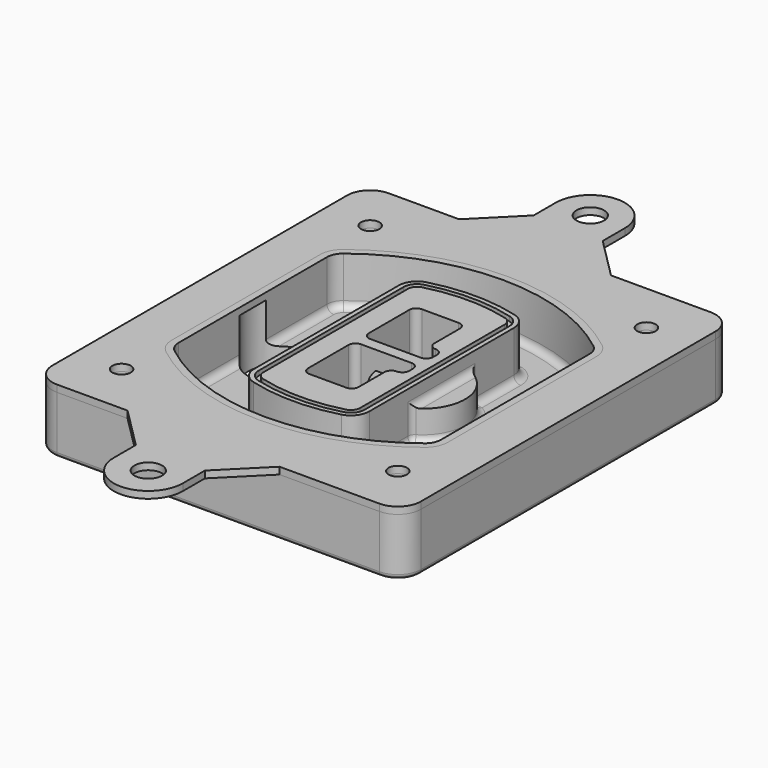
from build123d import *

# Parameters (mm, degrees)
F0_R      = 4
F1_DEPTH  = 25
F2_DEPTH  = 3
F3_DEPTH  = 18
F5_DEPTH  = 21
F6_DEPTH  = 2
F8_DEPTH  = 20
F9_DEPTH  = 16
F10_DEPTH = 25
F7_R      = 6
F7_R_2    = 4
F11_DEPTH = 6
F13_DEPTH = 9
F14_R     = 3
F15_R     = 2
F16_R     = 6
F16_R_2   = 4
F17_DEPTH = 3


with BuildPart() as f1:
    # F0 (on Top) → F1 (new body)
    with BuildSketch(Plane.XY):
        with BuildLine():
            ThreePointArc((-80, -80), (-77.0710678119, -87.0710678119), (-70, -90))
            Line((-70, -90), (70, -90))
            ThreePointArc((70, -90), (77.0710678119, -87.0710678119), (80, -80))
            Line((80, -80), (80, 80))
            ThreePointArc((80, 80), (77.0710678119, 87.0710678119), (70, 90))
            Line((70, 90), (-70, 90))
            ThreePointArc((-70, 90), (-77.0710678119, 87.0710678119), (-80, 80))
            Line((-80, 80), (-80, -80))
        make_face()
        with Locations((-60, -67.5)):
            Circle(F0_R, mode=Mode.SUBTRACT)
        with Locations((60, -67.5)):
            Circle(F0_R, mode=Mode.SUBTRACT)
        with Locations((-60, 67.5)):
            Circle(F0_R, mode=Mode.SUBTRACT)
        with BuildLine():
            ThreePointArc((-64, 40.2934422872), (-62.5820384798, 46.4328484224), (-58.6153846154, 51.3286200352))
            ThreePointArc((-58.6153846154, 51.3286200352), (0, 71.5), (58.6153846154, 51.3286200352))
            ThreePointArc((58.6153846154, 51.3286200352), (62.5820384798, 46.4328484224), (64, 40.2934422872))
            Line((64, 40.2934422872), (64, -40.2934422872))
            ThreePointArc((64, -40.2934422872), (62.5820384798, -46.4328484224), (58.6153846154, -51.3286200352))
            ThreePointArc((58.6153846154, -51.3286200352), (0, -71.5), (-58.6153846154, -51.3286200352))
            ThreePointArc((-58.6153846154, -51.3286200352), (-62.5820384798, -46.4328484224), (-64, -40.2934422872))
            Line((-64, -40.2934422872), (-64, 40.2934422872))
        make_face(mode=Mode.SUBTRACT)
        with Locations((60, 67.5)):
            Circle(F0_R, mode=Mode.SUBTRACT)
        with BuildLine():
            ThreePointArc((58.6153846154, 51.3286200352), (0, 71.5), (-58.6153846154, 51.3286200352))
            ThreePointArc((-58.6153846154, 51.3286200352), (-62.5820384798, 46.4328484224), (-64, 40.2934422872))
            Line((-64, 40.2934422872), (-64, -40.2934422872))
            ThreePointArc((-64, -40.2934422872), (-62.5820384798, -46.4328484224), (-58.6153846154, -51.3286200352))
            ThreePointArc((-58.6153846154, -51.3286200352), (0, -71.5), (58.6153846154, -51.3286200352))
            ThreePointArc((58.6153846154, -51.3286200352), (62.5820384798, -46.4328484224), (64, -40.2934422872))
            Line((64, -40.2934422872), (64, 40.2934422872))
            ThreePointArc((64, 40.2934422872), (62.5820384798, 46.4328484224), (58.6153846154, 51.3286200352))
        make_face()
        with BuildLine():
            Line((-60, -40.2934422872), (-60, 40.2934422872))
            ThreePointArc((-60, 40.2934422872), (-58.9871703427, 44.6787323838), (-56.1538461538, 48.1757121072))
            ThreePointArc((-56.1538461538, 48.1757121072), (0, 67.5), (56.1538461538, 48.1757121072))
            ThreePointArc((56.1538461538, 48.1757121072), (58.9871703427, 44.6787323838), (60, 40.2934422872))
            Line((60, 40.2934422872), (60, -40.2934422872))
            ThreePointArc((60, -40.2934422872), (58.9871703427, -44.6787323838), (56.1538461538, -48.1757121072))
            ThreePointArc((56.1538461538, -48.1757121072), (0, -67.5), (-56.1538461538, -48.1757121072))
            ThreePointArc((-56.1538461538, -48.1757121072), (-58.9871703427, -44.6787323838), (-60, -40.2934422872))
        make_face(mode=Mode.SUBTRACT)
        with BuildLine():
            ThreePointArc((-56.1538461538, 48.1757121072), (-58.9871703427, 44.6787323838), (-60, 40.2934422872))
            Line((-60, 40.2934422872), (-60, -40.2934422872))
            ThreePointArc((-60, -40.2934422872), (-58.9871703427, -44.6787323838), (-56.1538461538, -48.1757121072))
            ThreePointArc((-56.1538461538, -48.1757121072), (0, -67.5), (56.1538461538, -48.1757121072))
            ThreePointArc((56.1538461538, -48.1757121072), (58.9871703427, -44.6787323838), (60, -40.2934422872))
            Line((60, -40.2934422872), (60, 40.2934422872))
            ThreePointArc((60, 40.2934422872), (58.9871703427, 44.6787323838), (56.1538461538, 48.1757121072))
            ThreePointArc((56.1538461538, 48.1757121072), (0, 67.5), (-56.1538461538, 48.1757121072))
        make_face()
        with BuildLine():
            ThreePointArc((54.3076923077, 45.8110311612), (56.2910192399, 43.3631453548), (57, 40.2934422872))
            Line((57, 40.2934422872), (57, -40.2934422872))
            ThreePointArc((57, -40.2934422872), (56.2910192399, -43.3631453548), (54.3076923077, -45.8110311612))
            ThreePointArc((54.3076923077, -45.8110311612), (0, -64.5), (-54.3076923077, -45.8110311612))
            ThreePointArc((-54.3076923077, -45.8110311612), (-56.2910192399, -43.3631453548), (-57, -40.2934422872))
            Line((-57, -40.2934422872), (-57, 40.2934422872))
            ThreePointArc((-57, 40.2934422872), (-56.2910192399, 43.3631453548), (-54.3076923077, 45.8110311612))
            ThreePointArc((-54.3076923077, 45.8110311612), (0, 64.5), (54.3076923077, 45.8110311612))
        make_face(mode=Mode.SUBTRACT)
        with BuildLine():
            Line((57, -40.2934422872), (57, 40.2934422872))
            ThreePointArc((57, 40.2934422872), (56.2910192399, 43.3631453548), (54.3076923077, 45.8110311612))
            ThreePointArc((54.3076923077, 45.8110311612), (0, 64.5), (-54.3076923077, 45.8110311612))
            ThreePointArc((-54.3076923077, 45.8110311612), (-56.2910192399, 43.3631453548), (-57, 40.2934422872))
            Line((-57, 40.2934422872), (-57, -40.2934422872))
            ThreePointArc((-57, -40.2934422872), (-56.2910192399, -43.3631453548), (-54.3076923077, -45.8110311612))
            ThreePointArc((-54.3076923077, -45.8110311612), (0, -64.5), (54.3076923077, -45.8110311612))
            ThreePointArc((54.3076923077, -45.8110311612), (56.2910192399, -43.3631453548), (57, -40.2934422872))
        make_face()
    extrude(amount=-F1_DEPTH)

    # F0 (on Top) → F2 (join)
    with BuildSketch(Plane.XY):
        with BuildLine():
            ThreePointArc((-56.1538461538, 48.1757121072), (-58.9871703427, 44.6787323838), (-60, 40.2934422872))
            Line((-60, 40.2934422872), (-60, -40.2934422872))
            ThreePointArc((-60, -40.2934422872), (-58.9871703427, -44.6787323838), (-56.1538461538, -48.1757121072))
            ThreePointArc((-56.1538461538, -48.1757121072), (0, -67.5), (56.1538461538, -48.1757121072))
            ThreePointArc((56.1538461538, -48.1757121072), (58.9871703427, -44.6787323838), (60, -40.2934422872))
            Line((60, -40.2934422872), (60, 40.2934422872))
            ThreePointArc((60, 40.2934422872), (58.9871703427, 44.6787323838), (56.1538461538, 48.1757121072))
            ThreePointArc((56.1538461538, 48.1757121072), (0, 67.5), (-56.1538461538, 48.1757121072))
        make_face()
        with BuildLine():
            ThreePointArc((54.3076923077, 45.8110311612), (56.2910192399, 43.3631453548), (57, 40.2934422872))
            Line((57, 40.2934422872), (57, -40.2934422872))
            ThreePointArc((57, -40.2934422872), (56.2910192399, -43.3631453548), (54.3076923077, -45.8110311612))
            ThreePointArc((54.3076923077, -45.8110311612), (0, -64.5), (-54.3076923077, -45.8110311612))
            ThreePointArc((-54.3076923077, -45.8110311612), (-56.2910192399, -43.3631453548), (-57, -40.2934422872))
            Line((-57, -40.2934422872), (-57, 40.2934422872))
            ThreePointArc((-57, 40.2934422872), (-56.2910192399, 43.3631453548), (-54.3076923077, 45.8110311612))
            ThreePointArc((-54.3076923077, 45.8110311612), (0, 64.5), (54.3076923077, 45.8110311612))
        make_face(mode=Mode.SUBTRACT)
    extrude(amount=F2_DEPTH)

    # F0 (on Top) → F3 (cut)
    with BuildSketch(Plane.XY):
        with BuildLine():
            Line((57, -40.2934422872), (57, 40.2934422872))
            ThreePointArc((57, 40.2934422872), (56.2910192399, 43.3631453548), (54.3076923077, 45.8110311612))
            ThreePointArc((54.3076923077, 45.8110311612), (0, 64.5), (-54.3076923077, 45.8110311612))
            ThreePointArc((-54.3076923077, 45.8110311612), (-56.2910192399, 43.3631453548), (-57, 40.2934422872))
            Line((-57, 40.2934422872), (-57, -40.2934422872))
            ThreePointArc((-57, -40.2934422872), (-56.2910192399, -43.3631453548), (-54.3076923077, -45.8110311612))
            ThreePointArc((-54.3076923077, -45.8110311612), (0, -64.5), (54.3076923077, -45.8110311612))
            ThreePointArc((54.3076923077, -45.8110311612), (56.2910192399, -43.3631453548), (57, -40.2934422872))
        make_face()
    extrude(amount=-F3_DEPTH, mode=Mode.SUBTRACT)

    # F4 (on face) → F5 (join, through all)
    with BuildSketch(Plane.XY.offset(3)):
        with BuildLine():
            ThreePointArc((-25, -39.2465276821), (-23.3511545998, -44.1109737193), (-19.0842911877, -46.9702398883))
            ThreePointArc((-19.0842911877, -46.9702398883), (0, -49.5), (19.0842911877, -46.9702398883))
            ThreePointArc((19.0842911877, -46.9702398883), (23.3511545998, -44.1109737193), (25, -39.2465276821))
            Line((25, -39.2465276821), (25, 39.2465276821))
            ThreePointArc((25, 39.2465276821), (23.3511545998, 44.1109737193), (19.0842911877, 46.9702398883))
            ThreePointArc((19.0842911877, 46.9702398883), (0, 49.5), (-19.0842911877, 46.9702398883))
            ThreePointArc((-19.0842911877, 46.9702398883), (-23.3511545998, 44.1109737193), (-25, 39.2465276821))
            Line((-25, 39.2465276821), (-25, -39.2465276821))
        make_face()
        with BuildLine():
            ThreePointArc((18.5632183908, 45.0393118368), (21.7633659499, 42.89486221), (23, 39.2465276821))
            Line((23, 39.2465276821), (23, -39.2465276821))
            ThreePointArc((23, -39.2465276821), (21.7633659499, -42.89486221), (18.5632183908, -45.0393118368))
            ThreePointArc((18.5632183908, -45.0393118368), (0, -47.5), (-18.5632183908, -45.0393118368))
            ThreePointArc((-18.5632183908, -45.0393118368), (-21.7633659499, -42.89486221), (-23, -39.2465276821))
            Line((-23, -39.2465276821), (-23, 39.2465276821))
            ThreePointArc((-23, 39.2465276821), (-21.7633659499, 42.89486221), (-18.5632183908, 45.0393118368))
            ThreePointArc((-18.5632183908, 45.0393118368), (0, 47.5), (18.5632183908, 45.0393118368))
        make_face(mode=Mode.SUBTRACT)
        with BuildLine():
            Line((23, -39.2465276821), (23, 39.2465276821))
            ThreePointArc((23, 39.2465276821), (21.7633659499, 42.89486221), (18.5632183908, 45.0393118368))
            ThreePointArc((18.5632183908, 45.0393118368), (0, 47.5), (-18.5632183908, 45.0393118368))
            ThreePointArc((-18.5632183908, 45.0393118368), (-21.7633659499, 42.89486221), (-23, 39.2465276821))
            Line((-23, 39.2465276821), (-23, -39.2465276821))
            ThreePointArc((-23, -39.2465276821), (-21.7633659499, -42.89486221), (-18.5632183908, -45.0393118368))
            ThreePointArc((-18.5632183908, -45.0393118368), (0, -47.5), (18.5632183908, -45.0393118368))
            ThreePointArc((18.5632183908, -45.0393118368), (21.7633659499, -42.89486221), (23, -39.2465276821))
        make_face()
        with BuildLine():
            ThreePointArc((18.0421455939, 43.1083837852), (20.1755772999, 41.6787507007), (21, 39.2465276821))
            Line((21, 39.2465276821), (21, -39.2465276821))
            ThreePointArc((21, -39.2465276821), (20.1755772999, -41.6787507007), (18.0421455939, -43.1083837852))
            ThreePointArc((18.0421455939, -43.1083837852), (0, -45.5), (-18.0421455939, -43.1083837852))
            ThreePointArc((-18.0421455939, -43.1083837852), (-20.1755772999, -41.6787507007), (-21, -39.2465276821))
            Line((-21, -39.2465276821), (-21, 39.2465276821))
            ThreePointArc((-21, 39.2465276821), (-20.1755772999, 41.6787507007), (-18.0421455939, 43.1083837852))
            ThreePointArc((-18.0421455939, 43.1083837852), (0, 45.5), (18.0421455939, 43.1083837852))
        make_face(mode=Mode.SUBTRACT)
        with BuildLine():
            Line((21, -39.2465276821), (21, 39.2465276821))
            ThreePointArc((21, 39.2465276821), (20.1755772999, 41.6787507007), (18.0421455939, 43.1083837852))
            ThreePointArc((18.0421455939, 43.1083837852), (0, 45.5), (-18.0421455939, 43.1083837852))
            ThreePointArc((-18.0421455939, 43.1083837852), (-20.1755772999, 41.6787507007), (-21, 39.2465276821))
            Line((-21, 39.2465276821), (-21, -39.2465276821))
            ThreePointArc((-21, -39.2465276821), (-20.1755772999, -41.6787507007), (-18.0421455939, -43.1083837852))
            ThreePointArc((-18.0421455939, -43.1083837852), (0, -45.5), (18.0421455939, -43.1083837852))
            ThreePointArc((18.0421455939, -43.1083837852), (20.1755772999, -41.6787507007), (21, -39.2465276821))
        make_face()
        with BuildLine():
            Line((-8, -2.5), (14, -2.5))
            ThreePointArc((14, -2.5), (16.1213203436, -3.3786796564), (17, -5.5))
            Line((17, -5.5), (17, -7.5))
            ThreePointArc((17, -7.5), (16.1213203436, -9.6213203436), (14, -10.5))
            ThreePointArc((14, -10.5), (11.8786796564, -11.3786796564), (11, -13.5))
            Line((11, -13.5), (11, -27.5))
            ThreePointArc((11, -27.5), (10.1213203436, -29.6213203436), (8, -30.5))
            Line((8, -30.5), (-8, -30.5))
            ThreePointArc((-8, -30.5), (-10.1213203436, -29.6213203436), (-11, -27.5))
            Line((-11, -27.5), (-11, -5.5))
            ThreePointArc((-11, -5.5), (-10.1213203436, -3.3786796564), (-8, -2.5))
        make_face(mode=Mode.SUBTRACT)
        with BuildLine():
            ThreePointArc((-8, 2.5), (-10.1213203436, 3.3786796564), (-11, 5.5))
            Line((-11, 5.5), (-11, 27.5))
            ThreePointArc((-11, 27.5), (-10.1213203436, 29.6213203436), (-8, 30.5))
            Line((-8, 30.5), (8, 30.5))
            ThreePointArc((8, 30.5), (10.1213203436, 29.6213203436), (11, 27.5))
            Line((11, 27.5), (11, 13.5))
            ThreePointArc((11, 13.5), (11.8786796564, 11.3786796564), (14, 10.5))
            ThreePointArc((14, 10.5), (16.1213203436, 9.6213203436), (17, 7.5))
            Line((17, 7.5), (17, 5.5))
            ThreePointArc((17, 5.5), (16.1213203436, 3.3786796564), (14, 2.5))
            Line((14, 2.5), (-8, 2.5))
        make_face(mode=Mode.SUBTRACT)
    extrude(amount=-F5_DEPTH)

    # F4 (on face) → F6 (cut)
    with BuildSketch(Plane.XY.offset(3)):
        with BuildLine():
            Line((23, -39.2465276821), (23, 39.2465276821))
            ThreePointArc((23, 39.2465276821), (21.7633659499, 42.89486221), (18.5632183908, 45.0393118368))
            ThreePointArc((18.5632183908, 45.0393118368), (0, 47.5), (-18.5632183908, 45.0393118368))
            ThreePointArc((-18.5632183908, 45.0393118368), (-21.7633659499, 42.89486221), (-23, 39.2465276821))
            Line((-23, 39.2465276821), (-23, -39.2465276821))
            ThreePointArc((-23, -39.2465276821), (-21.7633659499, -42.89486221), (-18.5632183908, -45.0393118368))
            ThreePointArc((-18.5632183908, -45.0393118368), (0, -47.5), (18.5632183908, -45.0393118368))
            ThreePointArc((18.5632183908, -45.0393118368), (21.7633659499, -42.89486221), (23, -39.2465276821))
        make_face()
        with BuildLine():
            ThreePointArc((18.0421455939, 43.1083837852), (20.1755772999, 41.6787507007), (21, 39.2465276821))
            Line((21, 39.2465276821), (21, -39.2465276821))
            ThreePointArc((21, -39.2465276821), (20.1755772999, -41.6787507007), (18.0421455939, -43.1083837852))
            ThreePointArc((18.0421455939, -43.1083837852), (0, -45.5), (-18.0421455939, -43.1083837852))
            ThreePointArc((-18.0421455939, -43.1083837852), (-20.1755772999, -41.6787507007), (-21, -39.2465276821))
            Line((-21, -39.2465276821), (-21, 39.2465276821))
            ThreePointArc((-21, 39.2465276821), (-20.1755772999, 41.6787507007), (-18.0421455939, 43.1083837852))
            ThreePointArc((-18.0421455939, 43.1083837852), (0, 45.5), (18.0421455939, 43.1083837852))
        make_face(mode=Mode.SUBTRACT)
    extrude(amount=-F6_DEPTH, mode=Mode.SUBTRACT)

    # F7 (on face) → F8 (join)
    with BuildSketch(Plane(origin=(0, 0, -25), x_dir=(1, 0, 0), z_dir=(0, 0, -1))):
        with BuildLine():
            ThreePointArc((3.28842436, 0), (16.7567035675, 13.4682792075), (30.224982775, 0))
            Line((30.224982775, 0), (35.224982775, 0))
            ThreePointArc((35.224982775, 0), (16.7567035675, 18.4682792075), (-1.71157564, 0))
            Line((-1.71157564, 0), (3.28842436, 0))
        make_face()
        with BuildLine():
            Line((3.28842436, 0), (30.224982775, 0))
            ThreePointArc((30.224982775, 0), (16.7567035675, 13.4682792075), (3.28842436, 0))
        make_face()
        with BuildLine():
            ThreePointArc((3.28842436, 0), (16.7567035675, -13.4682792075), (30.224982775, 0))
            Line((30.224982775, 0), (3.28842436, 0))
        make_face()
        with BuildLine():
            Line((35.224982775, 0), (30.224982775, 0))
            ThreePointArc((30.224982775, 0), (16.7567035675, -13.4682792075), (3.28842436, 0))
            Line((3.28842436, 0), (-1.71157564, 0))
            ThreePointArc((-1.71157564, 0), (16.7567035675, -18.4682792075), (35.224982775, 0))
        make_face()
    extrude(amount=-F8_DEPTH)

    # F7 (on face) → F9 (cut)
    with BuildSketch(Plane(origin=(0, 0, -25), x_dir=(1, 0, 0), z_dir=(0, 0, -1))):
        with BuildLine():
            Line((3.28842436, 0), (30.224982775, 0))
            ThreePointArc((30.224982775, 0), (16.7567035675, 13.4682792075), (3.28842436, 0))
        make_face()
        with BuildLine():
            ThreePointArc((3.28842436, 0), (16.7567035675, -13.4682792075), (30.224982775, 0))
            Line((30.224982775, 0), (3.28842436, 0))
        make_face()
    extrude(amount=-F9_DEPTH, mode=Mode.SUBTRACT)

    # F7 (on face) → F10 (cut)
    with BuildSketch(Plane(origin=(0, 0, -25), x_dir=(1, 0, 0), z_dir=(0, 0, -1))):
        with BuildLine():
            Line((-59.0318229325, 0), (-32.0952645175, 0))
            ThreePointArc((-32.0952645175, 0), (-45.563543725, 13.4682792075), (-59.0318229325, 0))
        make_face()
        with BuildLine():
            ThreePointArc((-59.0318229325, 0), (-45.563543725, -13.4682792075), (-32.0952645175, 0))
            Line((-32.0952645175, 0), (-59.0318229325, 0))
        make_face()
    extrude(amount=-F10_DEPTH, mode=Mode.SUBTRACT)

    # F7 (on face) → F11 (cut)
    with BuildSketch(Plane(origin=(0, 0, -25), x_dir=(1, 0, 0), z_dir=(0, 0, -1))):
        with Locations((60, -67.5)):
            Circle(F7_R)
        with Locations((60, -67.5)):
            Circle(F7_R_2, mode=Mode.SUBTRACT)
        with Locations((60, -67.5)):
            Circle(F7_R)
        with Locations((60, -67.5)):
            Circle(F7_R_2, mode=Mode.SUBTRACT)
        with Locations((-60, -67.5)):
            Circle(F7_R)
        with Locations((-60, -67.5)):
            Circle(F7_R_2, mode=Mode.SUBTRACT)
        with Locations((-60, -67.5)):
            Circle(F7_R)
        with Locations((-60, -67.5)):
            Circle(F7_R_2, mode=Mode.SUBTRACT)
        with Locations((-60, 67.5)):
            Circle(F7_R)
        with Locations((-60, 67.5)):
            Circle(F7_R_2, mode=Mode.SUBTRACT)
        with Locations((-60, 67.5)):
            Circle(F7_R)
        with Locations((-60, 67.5)):
            Circle(F7_R_2, mode=Mode.SUBTRACT)
        with Locations((60, 67.5)):
            Circle(F7_R)
        with Locations((60, 67.5)):
            Circle(F7_R_2, mode=Mode.SUBTRACT)
        with Locations((60, 67.5)):
            Circle(F7_R)
        with Locations((60, 67.5)):
            Circle(F7_R_2, mode=Mode.SUBTRACT)
    extrude(amount=-F11_DEPTH, mode=Mode.SUBTRACT)

    # F12 (on face) → F13 (cut, through all)
    with BuildSketch(Plane(origin=(0, 0, -9), x_dir=(1, 0, 0), z_dir=(0, 0, -1))):
        with BuildLine():
            Line((11, 13.5), (11, 17.5481537753))
            ThreePointArc((11, 17.5481537753), (2.5696536419, 11.8239143813), (-1.5415842455, 2.5))
            Line((-1.5415842455, 2.5), (3.5224848595, 2.5))
            ThreePointArc((3.5224848595, 2.5), (6.1857188154, 8.3455872281), (11.2536447004, 12.2927168648))
            ThreePointArc((11.2536447004, 12.2927168648), (11.0640958889, 12.8831798879), (11, 13.5))
        make_face()
        with BuildLine():
            ThreePointArc((11.2536447004, -12.2927168648), (6.1857188154, -8.3455872281), (3.5224848595, -2.5))
            Line((3.5224848595, -2.5), (-1.5415842455, -2.5))
            ThreePointArc((-1.5415842455, -2.5), (2.5696536419, -11.8239143813), (11, -17.5481537753))
            Line((11, -17.5481537753), (11, -13.5))
            ThreePointArc((11, -13.5), (11.0640958889, -12.8831798879), (11.2536447004, -12.2927168648))
        make_face()
        with BuildLine():
            ThreePointArc((11.2536447004, 12.2927168648), (6.1857188154, 8.3455872281), (3.5224848595, 2.5))
            Line((3.5224848595, 2.5), (14, 2.5))
            ThreePointArc((14, 2.5), (16.1213203436, 3.3786796564), (17, 5.5))
            Line((17, 5.5), (17, 7.5))
            ThreePointArc((17, 7.5), (16.1213203436, 9.6213203436), (14, 10.5))
            ThreePointArc((14, 10.5), (12.3601599782, 10.9878446101), (11.2536447004, 12.2927168648))
        make_face()
        with BuildLine():
            Line((14, -2.5), (3.5224848595, -2.5))
            ThreePointArc((3.5224848595, -2.5), (6.1857188154, -8.3455872281), (11.2536447004, -12.2927168648))
            ThreePointArc((11.2536447004, -12.2927168648), (12.3601599782, -10.9878446101), (14, -10.5))
            ThreePointArc((14, -10.5), (16.1213203436, -9.6213203436), (17, -7.5))
            Line((17, -7.5), (17, -5.5))
            ThreePointArc((17, -5.5), (16.1213203436, -3.3786796564), (14, -2.5))
        make_face()
    extrude(amount=F13_DEPTH, mode=Mode.SUBTRACT)

    # F14
    f14_edges = [f1.edges().sort_by_distance(p)[0] for p in [
        (-57, -23.703476, -18),
        (-57, 23.703476, -18),
        (25, 0, -5),
        (25, 16.526506, -11.5),
        (25, -16.526506, -11.5),
        (25, -27.886517, -18),
        (35.224983, 0, -18),
    ]]
    fillet(f14_edges, radius=F14_R)

    # F15
    f15_edges = [f1.edges().sort_by_distance(p)[0] for p in [
        (0, -90, -25),
    ]]
    fillet(f15_edges, radius=F15_R)


with BuildPart() as f17:
    # F16 (on face) → F17 (new body, through all)
    with BuildSketch(Plane.XY):
        with BuildLine():
            Line((26.6064071939, -90), (-39.3935928061, -90))
            Line((-39.3935928061, -90), (-21.3935928061, -108))
            Line((-21.3935928061, -108), (-21.3935928061, -120))
            ThreePointArc((-21.3935928061, -120), (-6.3935928061, -135), (8.6064071939, -120))
            Line((8.6064071939, -120), (8.6064071939, -108))
            Line((8.6064071939, -108), (26.6064071939, -90))
        make_face()
        with Locations((-6.3935928061, -120)):
            Circle(F16_R, mode=Mode.SUBTRACT)
        with BuildLine():
            Line((-21.3935928061, 108), (-39.3935928061, 90))
            Line((-39.3935928061, 90), (26.6064071939, 90))
            Line((26.6064071939, 90), (8.6064071939, 108))
            Line((8.6064071939, 108), (8.6064071939, 120))
            ThreePointArc((8.6064071939, 120), (-6.3935928061, 135), (-21.3935928061, 120))
            Line((-21.3935928061, 120), (-21.3935928061, 108))
        make_face()
        with Locations((-6.3935928061, 120)):
            Circle(F16_R, mode=Mode.SUBTRACT)
        with BuildLine():
            Line((26.6064071939, 90), (-39.3935928061, 90))
            Line((-39.3935928061, 90), (-70, 90))
            ThreePointArc((-70, 90), (-77.0710678119, 87.0710678119), (-80, 80))
            Line((-80, 80), (-80, -80))
            ThreePointArc((-80, -80), (-77.0710678119, -87.0710678119), (-70, -90))
            Line((-70, -90), (-39.3935928061, -90))
            Line((-39.3935928061, -90), (26.6064071939, -90))
            Line((26.6064071939, -90), (70, -90))
            ThreePointArc((70, -90), (77.0710678119, -87.0710678119), (80, -80))
            Line((80, -80), (80, 80))
            ThreePointArc((80, 80), (77.0710678119, 87.0710678119), (70, 90))
            Line((70, 90), (26.6064071939, 90))
        make_face()
        with Locations((-60, -67.5)):
            Circle(F16_R_2, mode=Mode.SUBTRACT)
        with Locations((60, -67.5)):
            Circle(F16_R_2, mode=Mode.SUBTRACT)
        with Locations((-60, 67.5)):
            Circle(F16_R_2, mode=Mode.SUBTRACT)
        with BuildLine():
            ThreePointArc((-60, 40.2934422872), (-58.9871703427, 44.6787323838), (-56.1538461538, 48.1757121072))
            ThreePointArc((-56.1538461538, 48.1757121072), (0, 67.5), (56.1538461538, 48.1757121072))
            ThreePointArc((56.1538461538, 48.1757121072), (58.9871703427, 44.6787323838), (60, 40.2934422872))
            Line((60, 40.2934422872), (60, -40.2934422872))
            ThreePointArc((60, -40.2934422872), (58.9871703427, -44.6787323838), (56.1538461538, -48.1757121072))
            ThreePointArc((56.1538461538, -48.1757121072), (0, -67.5), (-56.1538461538, -48.1757121072))
            ThreePointArc((-56.1538461538, -48.1757121072), (-58.9871703427, -44.6787323838), (-60, -40.2934422872))
            Line((-60, -40.2934422872), (-60, 40.2934422872))
        make_face(mode=Mode.SUBTRACT)
        with Locations((60, 67.5)):
            Circle(F16_R_2, mode=Mode.SUBTRACT)
    extrude(amount=F17_DEPTH)


solid = Compound([f1.part, f17.part])
